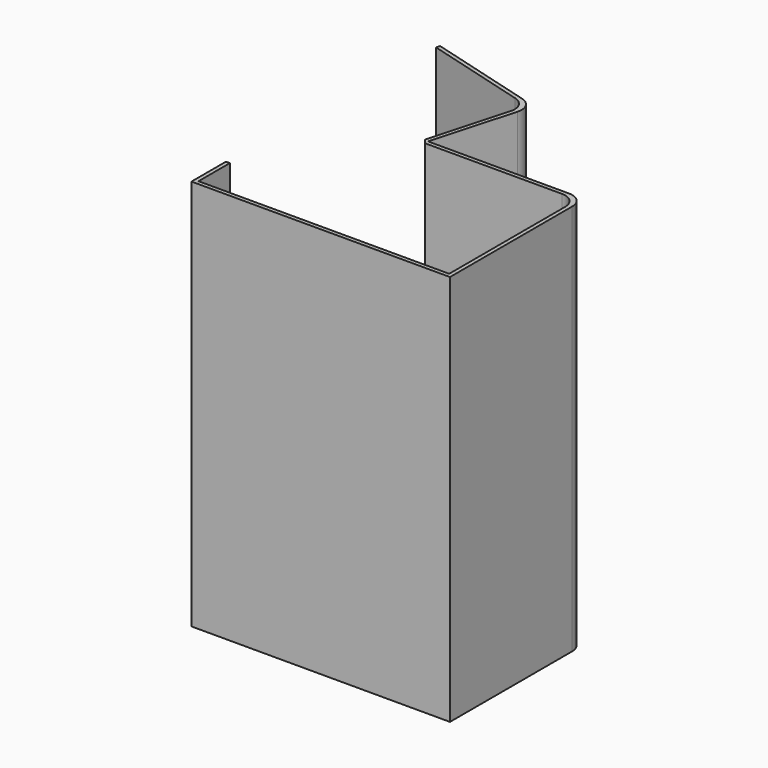
from build123d import *

# Parameters (mm, degrees)
F0_W     = 12.7
F0_H     = 127
F1_DEPTH = 1270


with BuildPart() as f1:
    # F0 (on Top) → F1 (new body)
    with BuildSketch(Plane.XY):
        with Locations((-412.75, 69.85)):
            Rectangle(F0_W, F0_H)
        Polygon((-406.4, 6.35), (-419.1, 6.35), (-419.1, -6.35), (419.1, -6.35), (419.1, 6.35), (406.4, 6.35), align=None)
        with BuildLine():
            Line((406.4, 476.25), (406.4, 6.35))
            Line((406.4, 6.35), (419.1, 6.35))
            Line((419.1, 6.35), (419.1, 488.95))
            ThreePointArc((419.1, 488.95), (404.221024, 524.871024), (368.3, 539.75))
            Line((368.3, 539.75), (-88.9, 539.75))
            Line((-88.9, 539.75), (-13.676923, 808.833349))
            ThreePointArc((-13.676923, 808.833349), (-18.335458, 847.433893), (-48.924245, 871.434517))
            Line((-48.924245, 871.434517), (-391.393962, 967.172979))
            Line((-391.393962, 967.172979), (-394.813193, 954.941918))
            Line((-394.813193, 954.941918), (-64.574537, 862.622687))
            ThreePointArc((-64.574537, 862.622687), (-33.98575, 838.622062), (-29.327215, 800.021518))
            Line((-29.327215, 800.021518), (-101.131061, 543.169231))
            Line((-101.131061, 543.169231), (-88.9, 527.05))
            Line((-88.9, 527.05), (355.6, 527.05))
            ThreePointArc((355.6, 527.05), (391.521024, 512.171024), (406.4, 476.25))
        make_face()
    extrude(amount=F1_DEPTH)


solid = f1.part
